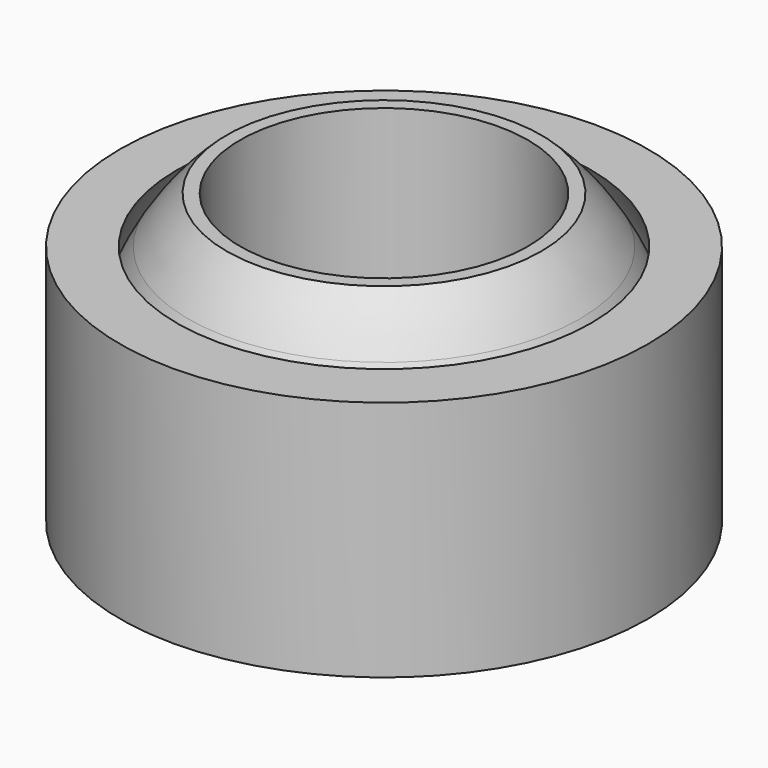
from build123d import *


with BuildPart() as f1:
    # F0 (on Front) → F1 (revolve)
    with BuildSketch(Plane.XZ):
        with BuildLine():
            Line((10.409166, 11.1125), (9.525, 11.1125))
            Line((9.525, 11.1125), (9.525, -11.1125))
            Line((9.525, -11.1125), (10.409166, -11.1125))
            ThreePointArc((10.409166, -11.1125), (15.092985, -2.010025), (12.954628, 8.001))
            ThreePointArc((12.954628, 8.001), (11.785036, 9.641126), (10.409166, 11.1125))
        make_face()
        with BuildLine():
            Line((17.4625, -8.001), (17.4625, 8.001))
            Line((17.4625, 8.001), (13.706345, 8.001))
            ThreePointArc((13.706345, 8.001), (15.870725, 0), (13.706345, -8.001))
            Line((13.706345, -8.001), (17.4625, -8.001))
        make_face()
    revolve(axis=Axis((0, 0, -12.759215), (0, 0, -1)))


solid = f1.part
